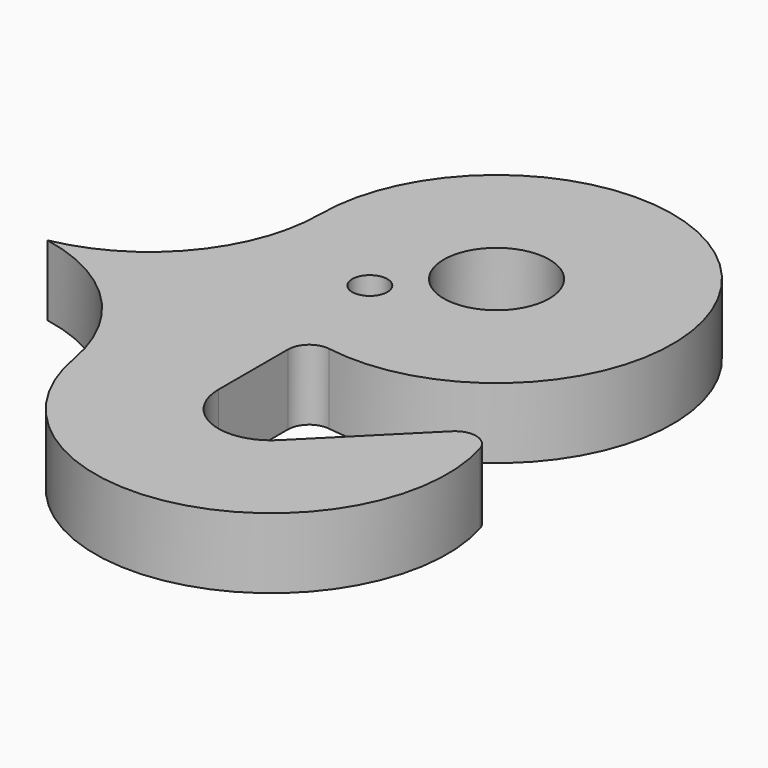
from build123d import *

# Parameters (mm, degrees)
F0_R     = 7.5
F1_DEPTH = 5
F2_R     = 3
F5_D     = 5


with BuildPart() as f1:
    # F0 (on Top) → F1 (new body, symmetric)
    with BuildSketch(Plane.XY):
        with BuildLine():
            Line((-7.5, -40), (-7.5, -23.84848))
            ThreePointArc((-7.5, -23.84848), (20.155644, 14.790199), (-25, 0))
            ThreePointArc((-25, 0), (-30.562061, -15.466566), (-44.700474, -23.84848))
            ThreePointArc((-44.700474, -23.84848), (-31.474239, -30.881099), (-24.642584, -44.212248))
            ThreePointArc((-24.642584, -44.212248), (7.982755, -63.691256), (22.166723, -28.439879))
            Line((22.166723, -28.439879), (5.303301, -45.303301))
            ThreePointArc((5.303301, -45.303301), (-2.870126, -46.929096), (-7.5, -40))
        make_face()
        Circle(F0_R, mode=Mode.SUBTRACT)
    extrude(amount=F1_DEPTH, both=True)

    # F2
    f2_edges = [f1.edges().sort_by_distance(p)[0] for p in [
        (22.166723, -28.439879, 0),
        (-7.5, -23.84848, 0),
    ]]
    fillet(f2_edges, radius=F2_R)

    # F5 (through all)
    with Locations(Plane.XY):
        with Locations((-10, -10)):
            Hole(F5_D / 2)


solid = f1.part
